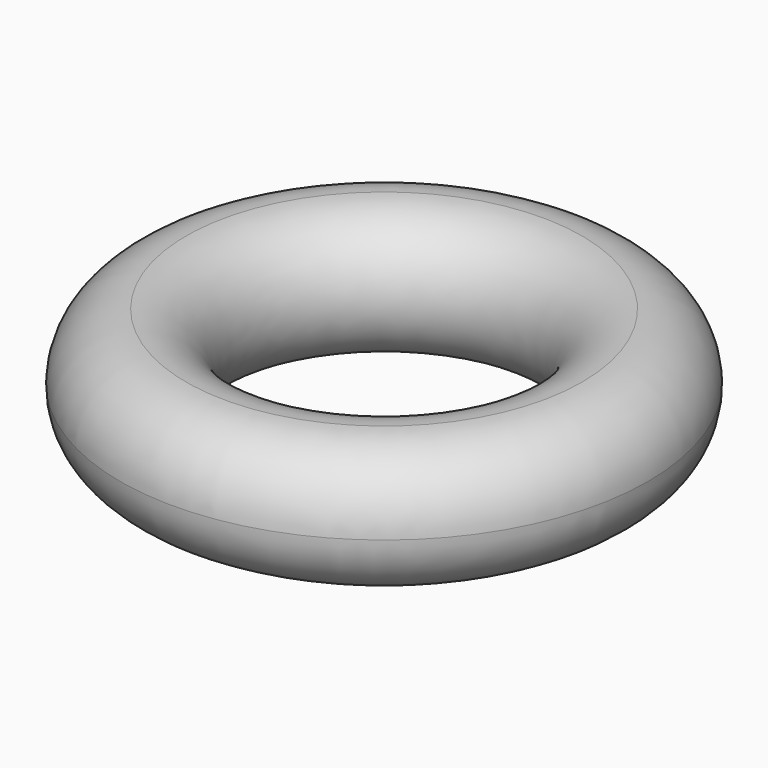
from build123d import *


with BuildPart() as f2:
    # F1 (on Front) → F2 (revolve)
    with BuildSketch(Plane.XZ):
        with BuildLine():
            Line((15, -10), (15, 0))
            ThreePointArc((15, 0), (10, -5), (15, -10))
        make_face()
        with BuildLine():
            ThreePointArc((20, -5), (18.535534, -1.464466), (15, 0))
            Line((15, 0), (15, -10))
            ThreePointArc((15, -10), (18.535534, -8.535534), (20, -5))
        make_face()
    revolve(axis=Axis((0, 0, 4.314133), (0, 0, 1)))


solid = f2.part
